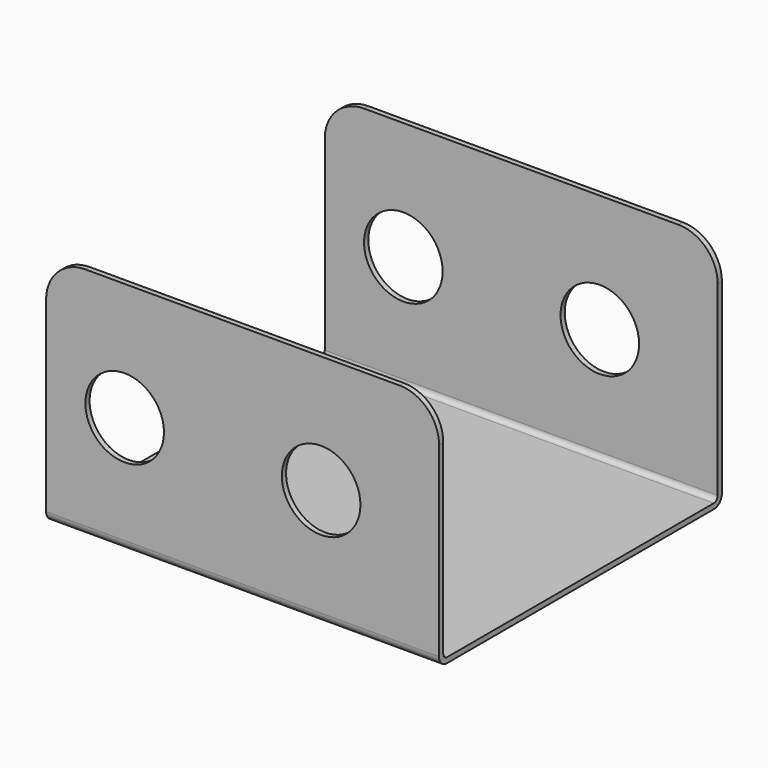
from build123d import *

# Parameters (mm, degrees)
F1_DEPTH = 228.6
F2_R     = 25.4
F3_DEPTH = 228.601
F4_T     = -3.4163
F5_R     = 6.35
F6_R     = 3.175


with BuildPart() as f1:
    # F0 (on Front) → F1 (new body)
    with BuildSketch(Plane.XZ):
        with BuildLine():
            Line((101.6, 152.4), (-101.6, 152.4))
            ThreePointArc((-101.6, 152.4), (-119.5605122421, 144.9605122421), (-127, 127))
            Line((-127, 127), (-127, 0))
            Line((-127, 0), (127, 0))
            Line((127, 0), (127, 127))
            ThreePointArc((127, 127), (119.5605122421, 144.9605122421), (101.6, 152.4))
        make_face()
    extrude(amount=F1_DEPTH)

    # F2 (on face) → F3 (cut, through all)
    with BuildSketch(Plane.XZ.offset(228.6)):
        with Locations((-76.2, 76.2)):
            Circle(F2_R)
        with Locations((50.8, 76.2)):
            Circle(F2_R)
    extrude(amount=-F3_DEPTH, mode=Mode.SUBTRACT)

    # F4
    f4_openings = [f1.faces().sort_by_distance(p)[0] for p in [
        (127, -114.3, 63.5),
        (119.560512, -114.3, 144.960512),
        (0, -114.3, 152.4),
        (-127, -114.3, 63.5),
        (-119.560512, -114.3, 144.960512),
        (-101.6, -114.3, 76.2),
        (25.4, -114.3, 76.2),
    ]]
    offset(amount=F4_T, openings=f4_openings)

    # F5
    f5_edges = [f1.edges().sort_by_distance(p)[0] for p in [
        (0, 0, 0),
        (0, -228.6, 0),
    ]]
    fillet(f5_edges, radius=F5_R)

    # F6
    f6_edges = [f1.edges().sort_by_distance(p)[0] for p in [
        (0, -3.4163, 3.4163),
        (0, -225.1837, 3.4163),
    ]]
    fillet(f6_edges, radius=F6_R)


solid = f1.part
